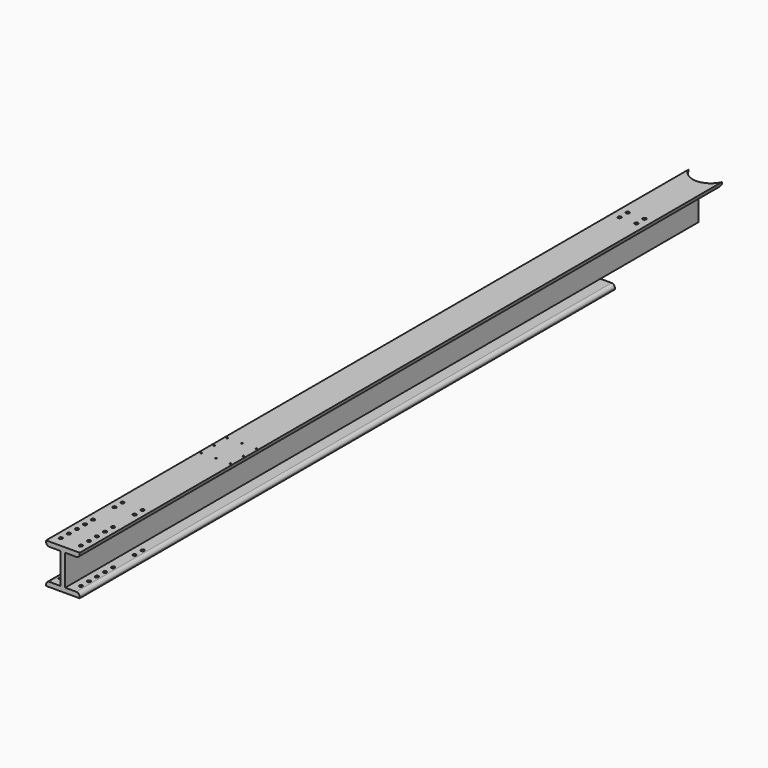
from build123d import *

# Parameters (mm, degrees)
F1_DEPTH  = 1524
F3_DEPTH  = 101.6
F5_D      = 6.5278
F5_DEPTH  = 12.7
F5_TIP    = 1.9611489744
F7_DEPTH  = 254
F9_D      = 6.5278
F9_DEPTH  = 101.6
F9_TIP    = 1.9611489744
F10_D     = 6.35
F12_D     = 2.9464
F12_DEPTH = 5.08
F12_TIP   = 0.885187864


with BuildPart() as f1:
    # F0 (on Front) → F1 (new body)
    with BuildSketch(Plane.XZ):
        with BuildLine():
            Line((0, -38.1), (0, 0))
            Line((0, 0), (0, 38.1))
            Line((0, 38.1), (-31.877, 38.1))
            Line((-31.877, 38.1), (-31.877, 35.56))
            ThreePointArc((-31.877, 35.56), (-30.0171280605, 31.0698719395), (-25.527, 29.21))
            Line((-25.527, 29.21), (-4.445, 29.21))
            Line((-4.445, 29.21), (-4.445, 0))
            Line((-4.445, 0), (-4.445, -29.21))
            Line((-4.445, -29.21), (-25.527, -29.21))
            ThreePointArc((-25.527, -29.21), (-30.0171280605, -31.0698719395), (-31.877, -35.56))
            Line((-31.877, -35.56), (-31.877, -38.1))
            Line((-31.877, -38.1), (0, -38.1))
        make_face()
        with BuildLine():
            Line((0, 38.1), (0, 0))
            Line((0, 0), (4.445, 0))
            Line((4.445, 0), (4.445, 29.21))
            Line((4.445, 29.21), (25.527, 29.21))
            ThreePointArc((25.527, 29.21), (30.0171280605, 31.0698719395), (31.877, 35.56))
            Line((31.877, 35.56), (31.877, 38.1))
            Line((31.877, 38.1), (0, 38.1))
        make_face()
        with BuildLine():
            Line((4.445, 0), (0, 0))
            Line((0, 0), (0, -38.1))
            Line((0, -38.1), (31.877, -38.1))
            Line((31.877, -38.1), (31.877, -35.56))
            ThreePointArc((31.877, -35.56), (30.0171280605, -31.0698719395), (25.527, -29.21))
            Line((25.527, -29.21), (4.445, -29.21))
            Line((4.445, -29.21), (4.445, 0))
        make_face()
    extrude(amount=F1_DEPTH)

    # F2 (on face) → F3 (cut)
    with BuildSketch(Plane.XY.offset(38.1)):
        with BuildLine():
            ThreePointArc((-31.877, 0), (-19.0959593861, -15.3024519653), (0, -21.03519742))
            Line((0, -21.03519742), (0, 0))
            Line((0, 0), (-31.877, 0))
        make_face()
        with BuildLine():
            Line((0, 0), (0, -21.03519742))
            ThreePointArc((0, -21.03519742), (24.5160992105, -10.8802966305), (34.671, 13.63580258))
            ThreePointArc((34.671, 13.63580258), (-6.9595536495, 47.6011209798), (-31.877, 0))
            Line((-31.877, 0), (0, 0))
        make_face()
    extrude(amount=-F3_DEPTH, mode=Mode.SUBTRACT)

    # F5
    with Locations(Plane.XY.offset(38.1)):
        with Locations((-15.875, -182.96019742), (15.875, -163.91019742), (15.875, -182.96019742), (-15.875, -163.91019742)):
            Hole(F5_D / 2, depth=F5_DEPTH)
            with Locations((0, 0, -(F5_DEPTH + F5_TIP / 2))):  # 118° drill point
                Cone(0, F5_D / 2, F5_TIP, mode=Mode.SUBTRACT)

    # F6 (on Front) → F7 (cut)
    with BuildSketch(Plane.XZ):
        Polygon((40.005, -29.21), (4.445, -29.21), (-4.445, -29.21), (-40.005, -29.21), (-40.005, -38.1), (40.005, -38.1), align=None)
    extrude(amount=F7_DEPTH, mode=Mode.SUBTRACT)

    # F9
    with Locations(Plane.XY.offset(38.1)):
        with Locations((-19.05, -1428.75), (-19.05, -1447.8), (-19.05, -1466.85), (-19.05, -1485.9), (-19.05, -1504.95), (19.05, -1504.95), (19.05, -1485.9), (19.05, -1466.85), (19.05, -1447.8), (19.05, -1428.75)):
            Hole(F9_D / 2, depth=F9_DEPTH)
            with Locations((0, 0, -(F9_DEPTH + F9_TIP / 2))):  # 118° drill point
                Cone(0, F9_D / 2, F9_TIP, mode=Mode.SUBTRACT)

    # F10 (through all)
    with Locations(Plane.XY.offset(38.1)):
        with Locations((19.05, -1377.55376), (19.05, -1358.61298), (-19.05, -1358.61298), (-19.05, -1377.55376)):
            Hole(F10_D / 2)

    # F12
    with Locations(Plane.XY.offset(38.1)):
        with Locations((27.64536, -1099.47964), (27.64536, -1130.3), (0, -1099.47964), (-27.64536, -1099.47964), (-27.64536, -1130.3), (-27.64536, -1161.12036), (0, -1161.12036), (27.64536, -1161.12036)):
            Hole(F12_D / 2, depth=F12_DEPTH)
            with Locations((0, 0, -(F12_DEPTH + F12_TIP / 2))):  # 118° drill point
                Cone(0, F12_D / 2, F12_TIP, mode=Mode.SUBTRACT)


solid = f1.part
